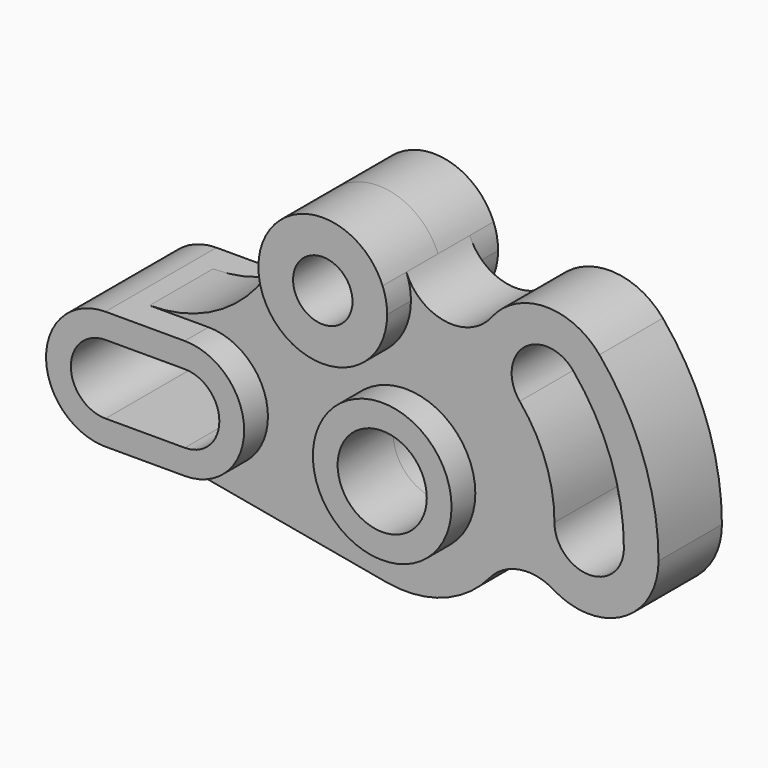
from build123d import *

# Parameters (mm, degrees)
F0_R     = 22.225
F1_DEPTH = 12.7
F0_R_2   = 14.2875
F0_R_3   = 9.525
F2_DEPTH = 22.225


with BuildPart() as f1:
    # F0 (on Front) → F1 (new body, symmetric)
    with BuildSketch(Plane.XZ):
        with BuildLine():
            ThreePointArc((0.129982223, 55.2430501556), (1.2198456997, 51.5031131444), (1.5875, 47.625))
            ThreePointArc((1.5875, 47.625), (-21.5859879765, 27.1439069815), (-39.0642428209, 52.6585365854))
            ThreePointArc((-39.0642428209, 52.6585365854), (-54.8414617427, 28.4450035745), (-82.1718427428, 19.05))
            Line((-82.1718427428, 19.05), (-63.2968, 19.05))
            ThreePointArc((-63.2968, 19.05), (-44.2468, 0), (-63.2968, -19.05))
            Line((-63.2968, -19.05), (-88.6968, -19.05))
            ThreePointArc((-88.6968, -19.05), (-90.408513446, -18.9729422357), (-92.1063790378, -18.7423923442))
            Line((-92.1063790378, -18.7423923442), (-6.2508949026, -34.3610526311))
            ThreePointArc((-6.2508949026, -34.3610526311), (11.8864426741, -32.8400381479), (26.7955113754, -22.3999150697))
            ThreePointArc((26.7955113754, -22.3999150697), (36.3710774359, -16.9217551289), (47.2042520761, -19.005988544))
            ThreePointArc((47.2042520761, -19.005988544), (69.6313679155, -19.3648496329), (80.9498, 0))
            ThreePointArc((80.9498, 0), (76.0679297141, 27.6864621982), (62.0111444616, 52.0335284466))
            ThreePointArc((62.0111444616, 52.0335284466), (44.5605298684, 59.9685045985), (27.4263113735, 51.3716241887))
            ThreePointArc((27.4263113735, 51.3716241887), (12.6545802444, 45.3853872913), (0.129982223, 55.2430501556))
        make_face()
        Circle(F0_R, mode=Mode.SUBTRACT)
        with BuildLine():
            ThreePointArc((69.85, 0), (58.7248, -11.1252), (47.5996, 0))
            ThreePointArc((47.5996, 0), (44.7289928724, 16.2800220142), (36.4634090747, 30.596433106))
            ThreePointArc((36.4634090747, 30.596433106), (37.834665998, 46.2699714599), (53.5082043519, 44.8987145366))
            ThreePointArc((53.5082043519, 44.8987145366), (65.6375295619, 23.8901070113), (69.85, 0))
        make_face(mode=Mode.SUBTRACT)
    extrude(amount=F1_DEPTH, both=True)

    # F0 (on Front) → F2 (join, symmetric)
    with BuildSketch(Plane.XZ):
        with BuildLine():
            Line((-63.2968, 19.05), (-82.1718427428, 19.05))
            Line((-82.1718427428, 19.05), (-88.6968, 19.05))
            ThreePointArc((-88.6968, 19.05), (-107.6697422357, 1.711713446), (-92.1063790378, -18.7423923442))
            ThreePointArc((-92.1063790378, -18.7423923442), (-90.408513446, -18.9729422357), (-88.6968, -19.05))
            Line((-88.6968, -19.05), (-63.2968, -19.05))
            ThreePointArc((-63.2968, -19.05), (-44.2468, 0), (-63.2968, 19.05))
        make_face()
        with BuildLine():
            ThreePointArc((-88.6968, -11.0998), (-99.7966, 0), (-88.6968, 11.0998))
            Line((-88.6968, 11.0998), (-63.2968, 11.0998))
            ThreePointArc((-63.2968, 11.0998), (-52.197, 0), (-63.2968, -11.0998))
            Line((-63.2968, -11.0998), (-88.6968, -11.0998))
        make_face(mode=Mode.SUBTRACT)
        Circle(F0_R)
        Circle(F0_R_2, mode=Mode.SUBTRACT)
        with BuildLine():
            ThreePointArc((-39.0642428209, 52.6585365854), (-21.5859879765, 27.1439069815), (1.5875, 47.625))
            ThreePointArc((1.5875, 47.625), (1.2198456997, 51.5031131444), (0.129982223, 55.2430501556))
            ThreePointArc((0.129982223, 55.2430501556), (-20.407912105, 68.217777398), (-39.0642428209, 52.6585365854))
        make_face()
        with Locations((-19.05, 47.625)):
            Circle(F0_R_3, mode=Mode.SUBTRACT)
    extrude(amount=F2_DEPTH, both=True)


solid = f1.part
